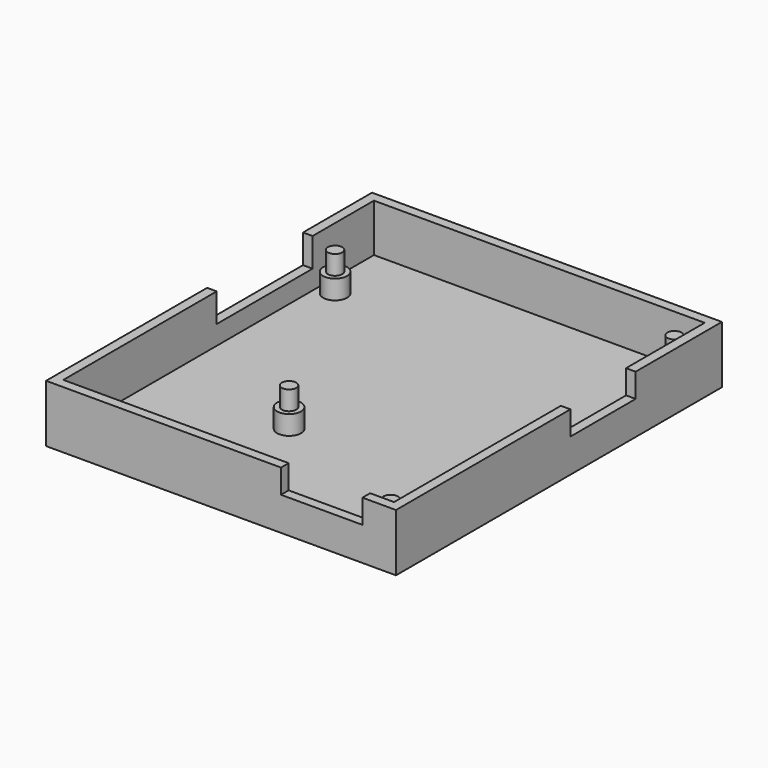
from build123d import *

# Parameters (mm, degrees)
SKETCH008_R     = 1.5
PAD003_DEPTH    = 8
SKETCH_W        = 73
SKETCH_H        = 85
PAD_DEPTH       = 2
SKETCH001_W     = 73
SKETCH001_H     = 85
SKETCH001_W_2   = 69
SKETCH001_H_2   = 81
PAD001_DEPTH    = 10
SKETCH003_W     = 2
SKETCH003_H     = 25
POCKET_DEPTH    = 6
SKETCH004_R     = 2.5
PAD002_DEPTH    = 4
SKETCH009_W     = 3
SKETCH009_H     = 17
POCKET001_DEPTH = 5
SKETCH010_W     = 17
SKETCH010_H     = 2
POCKET002_DEPTH = 5


with BuildPart() as pad003:
    # Sketch008 → Pad003 (new body)
    with BuildSketch(Plane.XY.offset(2)):
        with Locations((-31, 26)):
            Circle(SKETCH008_R)
        with Locations((31, 37)):
            Circle(SKETCH008_R)
        with Locations((31, -37)):
            Circle(SKETCH008_R)
        with Locations((-7, -16)):
            Circle(SKETCH008_R)
    extrude(amount=PAD003_DEPTH)


with BuildPart() as pocket002:
    # Sketch → Pad (new body)
    with BuildSketch(Plane.XY):
        Rectangle(SKETCH_W, SKETCH_H)
    extrude(amount=PAD_DEPTH)

    # Sketch001 → Pad001 (new body)
    with BuildSketch(Plane.XY.offset(2)):
        Rectangle(SKETCH001_W, SKETCH001_H)
        Rectangle(SKETCH001_W_2, SKETCH001_H_2, mode=Mode.SUBTRACT)
    extrude(amount=PAD001_DEPTH)

    # Sketch003 → Pocket (cut)
    with BuildSketch(Plane.XY.offset(12)):
        with Locations((-35.5, 12)):
            Rectangle(SKETCH003_W, SKETCH003_H)
    extrude(amount=-POCKET_DEPTH, mode=Mode.SUBTRACT)

    # Sketch004 → Pad002 (new body)
    with BuildSketch(Plane.XY.offset(2)):
        with Locations((-31, 26)):
            Circle(SKETCH004_R)
        with Locations((31, 37)):
            Circle(SKETCH004_R)
        with Locations((31, -37)):
            Circle(SKETCH004_R)
        with Locations((-7, -16)):
            Circle(SKETCH004_R)
    extrude(amount=PAD002_DEPTH)

    # Sketch009 → Pocket001 (cut)
    with BuildSketch(Plane.XY.offset(12)):
        with Locations((35.5, 11.5)):
            Rectangle(SKETCH009_W, SKETCH009_H)
    extrude(amount=-POCKET001_DEPTH, mode=Mode.SUBTRACT)

    # Sketch010 → Pocket002 (cut)
    with BuildSketch(Plane.XY.offset(12)):
        with Locations((21, -41.5)):
            Rectangle(SKETCH010_W, SKETCH010_H)
    extrude(amount=-POCKET002_DEPTH, mode=Mode.SUBTRACT)


solid = Compound([pad003.part, pocket002.part])
